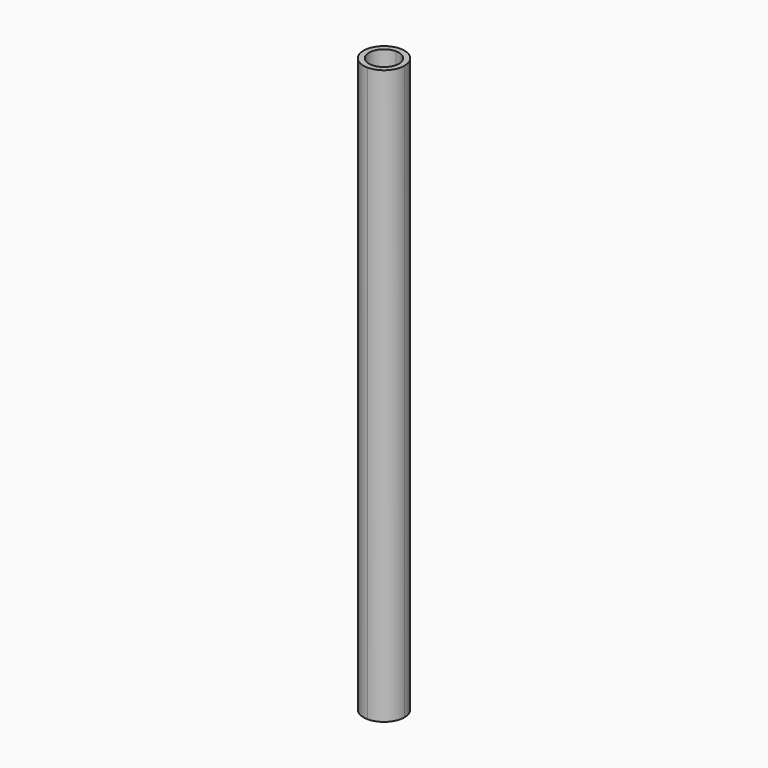
from build123d import *

# Parameters (mm, degrees)
F1_DEPTH = 266.7
F2_T     = -2.54


with BuildPart() as f1:
    # F0 (on Top) → F1 (new body)
    with BuildSketch(Plane.XY):
        with BuildLine():
            Line((0, -9.525), (0, 9.525))
            ThreePointArc((0, 9.525), (-9.525, 0), (0, -9.525))
        make_face()
        with BuildLine():
            ThreePointArc((0, -9.525), (6.735192, -6.735192), (9.525, 0))
            ThreePointArc((9.525, 0), (6.735192, 6.735192), (0, 9.525))
            Line((0, 9.525), (0, -9.525))
        make_face()
    extrude(amount=F1_DEPTH)

    # F2
    f2_openings = [f1.faces().sort_by_distance(p)[0] for p in [
        (0, 0, 266.7),
        (0, 0, 0),
    ]]
    offset(amount=F2_T, openings=f2_openings)


solid = f1.part
